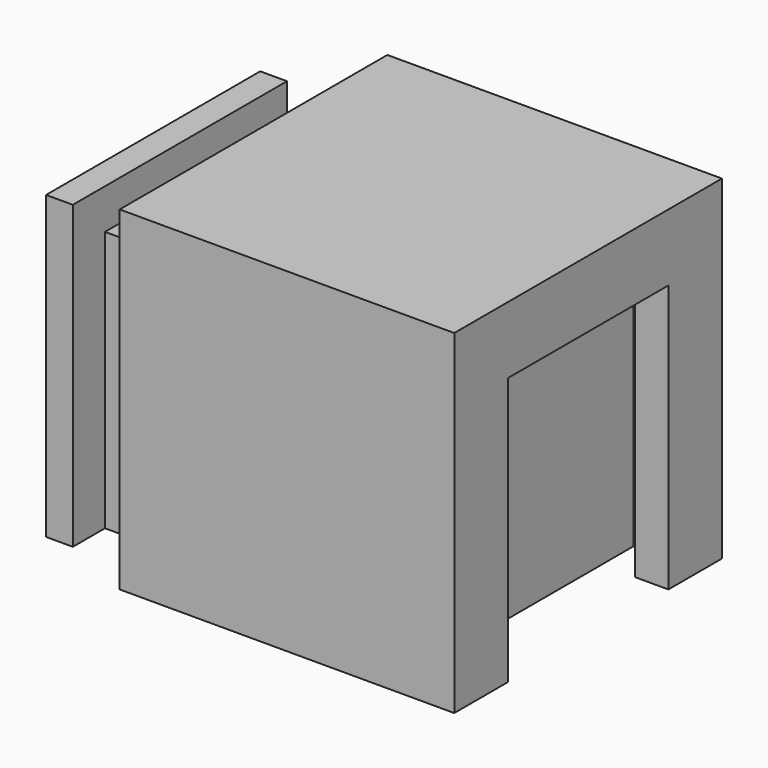
from build123d import *

# Parameters (mm, degrees)
F0_W      = 25.4
F0_H      = 25.4
F1_DEPTH  = 25.4
F2_W      = 20.32
F2_H      = 22.86
F3_DEPTH  = 7.62
F4_W      = 3.556
F4_H      = 20.32
F5_DEPTH  = 3.048
F6_W      = 3.556
F6_H      = 19.812
F7_DEPTH  = 3.048
F8_W      = 3.556
F8_H      = 19.812
F9_DEPTH  = 3.048
F13_DEPTH = 23.368
F12_W     = 2.54
F12_H     = 15.24
F14_DEPTH = 20.32


with BuildPart() as f1:
    # F0 (on Top) → F1 (new body)
    with BuildSketch(Plane.XY):
        Rectangle(F0_W, F0_H)
    extrude(amount=F1_DEPTH)

    # F2 (on face) → F3 (join)
    with BuildSketch(Plane(origin=(-12.7, 0, 0), x_dir=(0, -1, 0), z_dir=(-1, 0, 0))):
        with Locations((0, 11.43)):
            Rectangle(F2_W, F2_H)
    extrude(amount=F3_DEPTH)

    # F4 (on face) → F5 (cut)
    with BuildSketch(Plane.XY.offset(22.86)):
        with Locations((-16.51, 0)):
            Rectangle(F4_W, F4_H)
    extrude(amount=-F5_DEPTH, mode=Mode.SUBTRACT)

    # F6 (on face) → F7 (cut)
    with BuildSketch(Plane.XZ.offset(10.16)):
        with Locations((-16.51, 9.906)):
            Rectangle(F6_W, F6_H)
    extrude(amount=-F7_DEPTH, mode=Mode.SUBTRACT)

    # F8 (on face) → F9 (cut)
    with BuildSketch(Plane(origin=(0, 10.16, 0), x_dir=(-1, 0, 0), z_dir=(0, 1, 0))):
        with Locations((16.51, 9.906)):
            Rectangle(F8_W, F8_H)
    extrude(amount=-F9_DEPTH, mode=Mode.SUBTRACT)

    # F12 (on face) → F13 (cut)
    with BuildSketch(Plane(origin=(0, 0, 0), x_dir=(1, 0, 0), z_dir=(0, 0, -1))):
        Polygon((10.16, -7.62), (10.16, 7.62), (10.16, 10.668), (7.62, 10.668), (7.62, -10.668), (10.16, -10.668), align=None)
    extrude(amount=-F13_DEPTH, mode=Mode.SUBTRACT)

    # F12 (on face) → F14 (cut)
    with BuildSketch(Plane(origin=(0, 0, 0), x_dir=(1, 0, 0), z_dir=(0, 0, -1))):
        with Locations((11.43, 0)):
            Rectangle(F12_W, F12_H)
    extrude(amount=-F14_DEPTH, mode=Mode.SUBTRACT)


with BuildPart() as f10_1:
    # F10: copy of F1
    add(f1.part.moved(Location((-54.102, 0, 0))))


solid = f1.part
